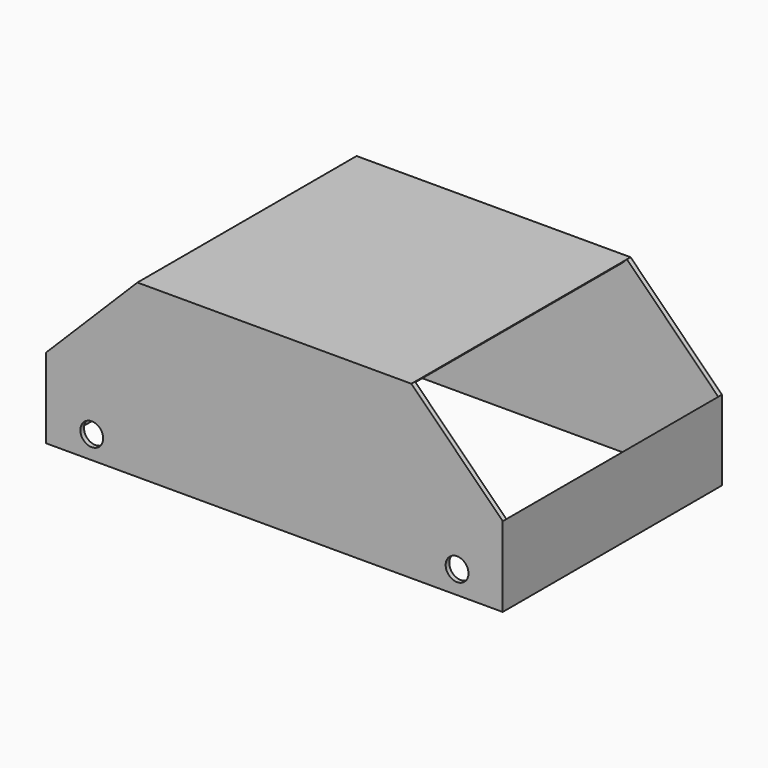
from build123d import *

# Parameters (mm, degrees)
F0_R     = 6.35
F1_DEPTH = 152.4
F2_T     = -2.54
F3_W     = 248.92
F3_H     = 147.32
F4_DEPTH = 25.4
F5_W     = 71.842049
F5_H     = 147.32
F6_DEPTH = 25.4


with BuildPart() as f1:
    # F0 (on Front) → F1 (new body)
    with BuildSketch(Plane.XZ):
        Polygon((-76.2, 95.25), (-127, 44.45), (-127, 0), (127, 0), (127, 44.45), (76.2, 95.25), align=None)
        with Locations((-101.6, 12.7)):
            Circle(F0_R, mode=Mode.SUBTRACT)
        with Locations((101.6, 12.7)):
            Circle(F0_R, mode=Mode.SUBTRACT)
    extrude(amount=F1_DEPTH)

    # F2
    f2_openings = [f1.faces().sort_by_distance(p)[0] for p in [
        (0, -76.2, 0),
    ]]
    offset(amount=F2_T, openings=f2_openings)

    # F3 (on face) → F4 (cut)
    with BuildSketch(Plane(origin=(0, 0, 0), x_dir=(1, 0, 0), z_dir=(0, 0, -1))):
        with Locations((0, 76.2)):
            Rectangle(F3_W, F3_H)
    extrude(amount=-F4_DEPTH, mode=Mode.SUBTRACT)

    # F5 (on face) → F6 (cut)
    with BuildSketch(Plane(origin=(85.725, 0, 85.725), x_dir=(0.707107, 0, -0.707107), z_dir=(0.707107, 0, 0.707107))):
        with Locations((22.45064, -76.2)):
            Rectangle(F5_W, F5_H)
    extrude(amount=-F6_DEPTH, mode=Mode.SUBTRACT)


solid = f1.part
